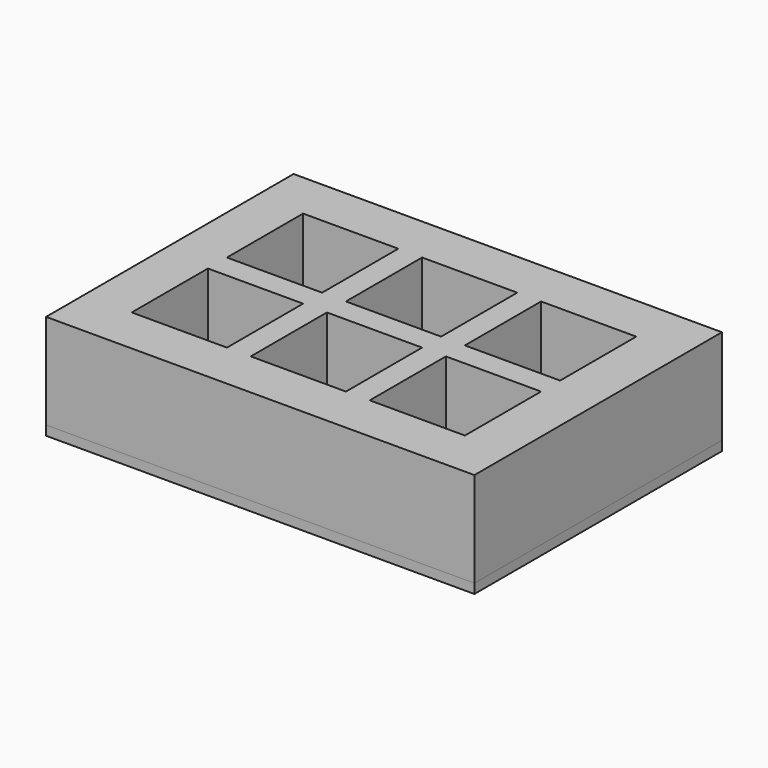
from build123d import *

# Parameters (mm, degrees)
F0_W     = 12.7
F0_H     = 12.7
F0_W_2   = 6.35
F0_H_2   = 25.4
F0_H_3   = 6.35
F0_W_3   = 25.4
F1_DEPTH = 25.4
F2_DEPTH = 2.54


with BuildPart() as f1:
    # F0 (on Top) → F1 (new body)
    with BuildSketch(Plane.XY):
        with Locations((-50.8, 34.925)):
            Rectangle(F0_W, F0_H)
        Polygon((-44.45, 3.175), (-44.45, 28.575), (-57.15, 28.575), (-57.15, -28.575), (-44.45, -28.575), (-44.45, -3.175), align=None)
        with Locations((-50.8, -34.925)):
            Rectangle(F0_W, F0_H)
        Polygon((44.45, -41.275), (44.45, -28.575), (19.05, -28.575), (12.7, -28.575), (-12.7, -28.575), (-19.05, -28.575), (-44.45, -28.575), (-44.45, -41.275), align=None)
        with Locations((50.8, -34.925)):
            Rectangle(F0_W, F0_H)
        Polygon((57.15, -28.575), (57.15, 28.575), (44.45, 28.575), (44.45, 3.175), (44.45, -3.175), (44.45, -28.575), align=None)
        with Locations((50.8, 34.925)):
            Rectangle(F0_W, F0_H)
        Polygon((44.45, 28.575), (44.45, 41.275), (-44.45, 41.275), (-44.45, 28.575), (-19.05, 28.575), (-12.7, 28.575), (12.7, 28.575), (19.05, 28.575), align=None)
        with Locations((15.875, 15.875)):
            Rectangle(F0_W_2, F0_H_2)
        with Locations((15.875, 0)):
            Rectangle(F0_W_2, F0_H_3)
        with Locations((15.875, -15.875)):
            Rectangle(F0_W_2, F0_H_2)
        with Locations((-15.875, 15.875)):
            Rectangle(F0_W_2, F0_H_2)
        with Locations((-15.875, 0)):
            Rectangle(F0_W_2, F0_H_3)
        with Locations((-15.875, -15.875)):
            Rectangle(F0_W_2, F0_H_2)
        with Locations((-31.75, 0)):
            Rectangle(F0_W_3, F0_H_3)
        Rectangle(F0_W_3, F0_H_3)
        with Locations((31.75, 0)):
            Rectangle(F0_W_3, F0_H_3)
    extrude(amount=F1_DEPTH)


with BuildPart() as f2:
    # F0 (on Top) → F2 (new body)
    with BuildSketch(Plane.XY):
        with Locations((-31.75, 15.875)):
            Rectangle(F0_W_3, F0_H_2)
        Polygon((-44.45, 3.175), (-44.45, 28.575), (-57.15, 28.575), (-57.15, -28.575), (-44.45, -28.575), (-44.45, -3.175), align=None)
        with Locations((-50.8, -34.925)):
            Rectangle(F0_W, F0_H)
        Polygon((44.45, -41.275), (44.45, -28.575), (19.05, -28.575), (12.7, -28.575), (-12.7, -28.575), (-19.05, -28.575), (-44.45, -28.575), (-44.45, -41.275), align=None)
        with Locations((50.8, -34.925)):
            Rectangle(F0_W, F0_H)
        Polygon((57.15, -28.575), (57.15, 28.575), (44.45, 28.575), (44.45, 3.175), (44.45, -3.175), (44.45, -28.575), align=None)
        with Locations((31.75, -15.875)):
            Rectangle(F0_W_3, F0_H_2)
        with Locations((-31.75, -15.875)):
            Rectangle(F0_W_3, F0_H_2)
        with Locations((0, 15.875)):
            Rectangle(F0_W_3, F0_H_2)
        with Locations((31.75, 15.875)):
            Rectangle(F0_W_3, F0_H_2)
        Polygon((44.45, 28.575), (44.45, 41.275), (-44.45, 41.275), (-44.45, 28.575), (-19.05, 28.575), (-12.7, 28.575), (12.7, 28.575), (19.05, 28.575), align=None)
        with Locations((50.8, 34.925)):
            Rectangle(F0_W, F0_H)
        with Locations((-50.8, 34.925)):
            Rectangle(F0_W, F0_H)
        with Locations((-31.75, 0)):
            Rectangle(F0_W_3, F0_H_3)
        with Locations((0, -15.875)):
            Rectangle(F0_W_3, F0_H_2)
        with Locations((15.875, -15.875)):
            Rectangle(F0_W_2, F0_H_2)
        with Locations((-15.875, -15.875)):
            Rectangle(F0_W_2, F0_H_2)
        with Locations((-15.875, 0)):
            Rectangle(F0_W_2, F0_H_3)
        with Locations((-15.875, 15.875)):
            Rectangle(F0_W_2, F0_H_2)
        Rectangle(F0_W_3, F0_H_3)
        with Locations((15.875, 0)):
            Rectangle(F0_W_2, F0_H_3)
        with Locations((31.75, 0)):
            Rectangle(F0_W_3, F0_H_3)
        with Locations((15.875, 15.875)):
            Rectangle(F0_W_2, F0_H_2)
    extrude(amount=-F2_DEPTH)


solid = Compound([f1.part, f2.part])
